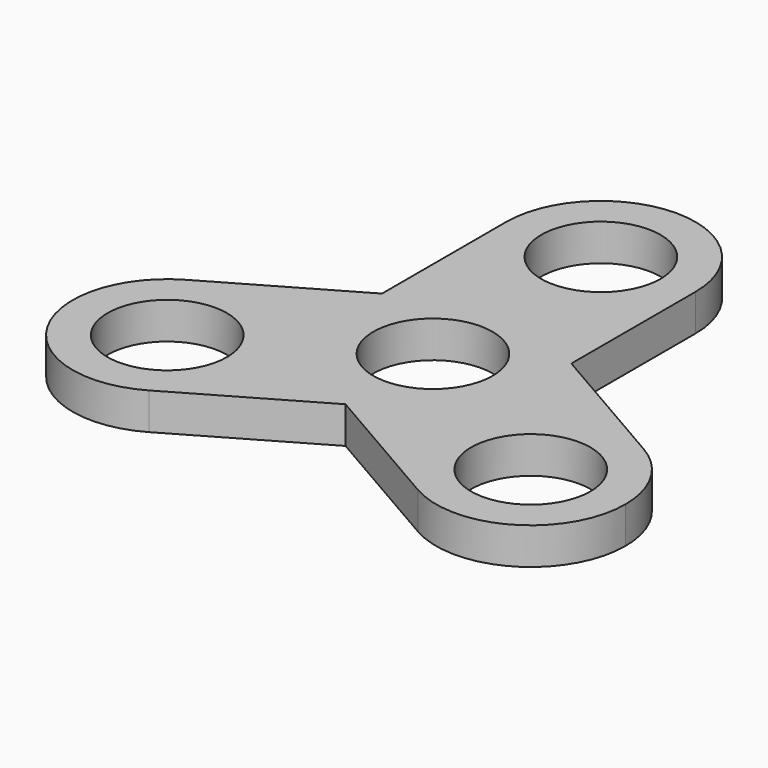
from build123d import *

# Parameters (mm, degrees)
F0_R     = 20.62
F0_R_2   = 13
F1_DEPTH = 4


with BuildPart() as f1:
    # F0 (on Top) → F1 (new body, symmetric)
    with BuildSketch(Plane.XY):
        with BuildLine():
            Line((20.62, 11.904963), (20.62, 45.724285))
            ThreePointArc((20.62, 45.724285), (0, 25.104285), (-20.62, 45.724285))
            Line((-20.62, 45.724285), (-20.62, 11.904963))
            Line((-20.62, 11.904963), (-49.908392, -5.004698))
            ThreePointArc((-49.908392, -5.004698), (-29.288392, -5.004698), (-18.978392, -22.862142))
            ThreePointArc((-18.978392, -22.862142), (-21.740948, -33.172142), (-29.288392, -40.719586))
            Line((-29.288392, -40.719586), (0, -23.809925))
            Line((0, -23.809925), (29.288392, -40.719586))
            ThreePointArc((29.288392, -40.719586), (21.740948, -12.552142), (49.908392, -5.004698))
            Line((49.908392, -5.004698), (20.62, 11.904963))
        make_face()
        Circle(F0_R, mode=Mode.SUBTRACT)
        with BuildLine():
            ThreePointArc((-20.62, 45.724285), (0, 25.104285), (20.62, 45.724285))
            ThreePointArc((20.62, 45.724285), (0, 66.344285), (-20.62, 45.724285))
        make_face()
        with Locations((0, 45.724285)):
            Circle(F0_R_2, mode=Mode.SUBTRACT)
        with BuildLine():
            ThreePointArc((60.218392, -22.862142), (57.455836, -12.552142), (49.908392, -5.004698))
            ThreePointArc((49.908392, -5.004698), (21.740948, -12.552142), (29.288392, -40.719586))
            ThreePointArc((29.288392, -40.719586), (49.908392, -40.719586), (60.218392, -22.862142))
        make_face()
        with Locations((39.598392, -22.862142)):
            Circle(F0_R_2, mode=Mode.SUBTRACT)
        Circle(F0_R)
        Circle(F0_R_2, mode=Mode.SUBTRACT)
        with BuildLine():
            ThreePointArc((-18.978392, -22.862142), (-29.288392, -5.004698), (-49.908392, -5.004698))
            ThreePointArc((-49.908392, -5.004698), (-57.455836, -33.172142), (-29.288392, -40.719586))
            ThreePointArc((-29.288392, -40.719586), (-21.740948, -33.172142), (-18.978392, -22.862142))
        make_face()
        with Locations((-39.598392, -22.862142)):
            Circle(F0_R_2, mode=Mode.SUBTRACT)
    extrude(amount=F1_DEPTH, both=True)


solid = f1.part
